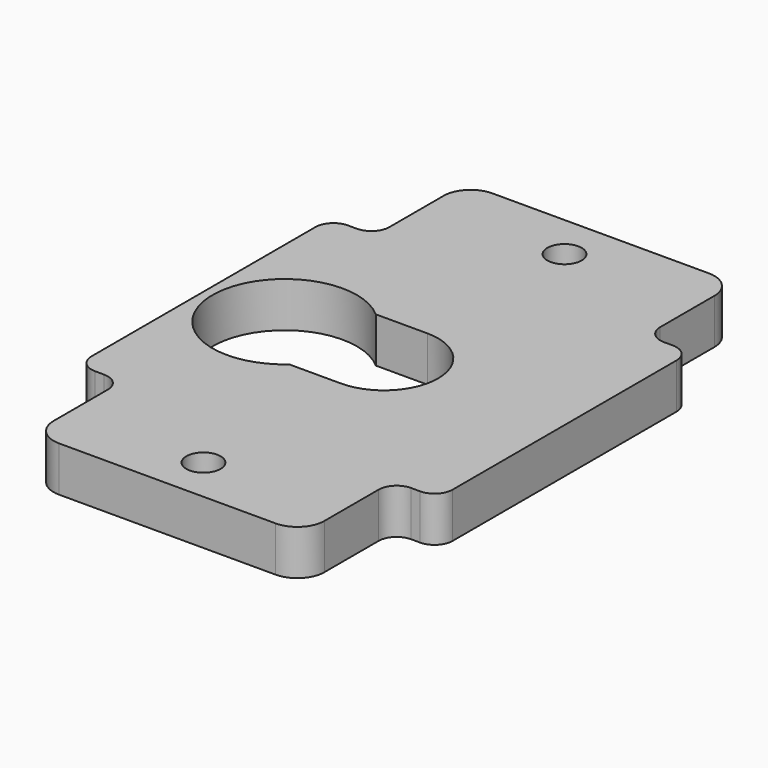
from build123d import *

# Parameters (mm, degrees)
F0_R     = 1.9
F1_DEPTH = 5


with BuildPart() as f1:
    # F0 (on Top) → F1 (new body)
    with BuildSketch(Plane.XY):
        with BuildLine():
            Line((-12, -30), (12, -30))
            ThreePointArc((12, -30), (14.12132, -29.12132), (15, -27))
            Line((15, -27), (15, -19.5))
            ThreePointArc((15, -19.5), (15.585786, -18.085786), (17, -17.5))
            Line((17, -17.5), (18, -17.5))
            ThreePointArc((18, -17.5), (19.414214, -16.914214), (20, -15.5))
            Line((20, -15.5), (20, 15.5))
            ThreePointArc((20, 15.5), (19.414214, 16.914214), (18, 17.5))
            Line((18, 17.5), (17, 17.5))
            ThreePointArc((17, 17.5), (15.585786, 18.085786), (15, 19.5))
            Line((15, 19.5), (15, 27))
            ThreePointArc((15, 27), (14.12132, 29.12132), (12, 30))
            Line((12, 30), (-12, 30))
            ThreePointArc((-12, 30), (-14.12132, 29.12132), (-15, 27))
            Line((-15, 27), (-15, 19.5))
            ThreePointArc((-15, 19.5), (-15.585786, 18.085786), (-17, 17.5))
            Line((-17, 17.5), (-18, 17.5))
            ThreePointArc((-18, 17.5), (-19.414214, 16.914214), (-20, 15.5))
            Line((-20, 15.5), (-20, -15.5))
            ThreePointArc((-20, -15.5), (-19.414214, -16.914214), (-18, -17.5))
            Line((-18, -17.5), (-17, -17.5))
            ThreePointArc((-17, -17.5), (-15.585786, -18.085786), (-15, -19.5))
            Line((-15, -19.5), (-15, -27))
            ThreePointArc((-15, -27), (-14.12132, -29.12132), (-12, -30))
        make_face()
        with Locations((0, -25)):
            Circle(F0_R, mode=Mode.SUBTRACT)
        with BuildLine():
            ThreePointArc((0, 6), (6, 0), (0, -6))
            Line((0, -6), (-5.708497, -6))
            ThreePointArc((-5.708497, -6), (-19, 0), (-5.708497, 6))
            Line((-5.708497, 6), (0, 6))
        make_face(mode=Mode.SUBTRACT)
        with Locations((0, 25)):
            Circle(F0_R, mode=Mode.SUBTRACT)
    extrude(amount=F1_DEPTH)


solid = f1.part
